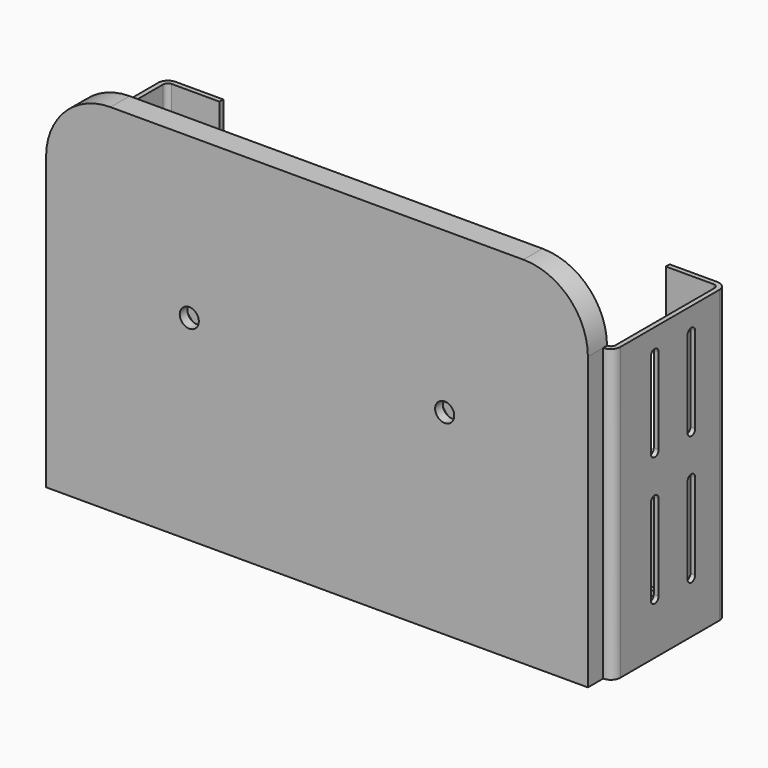
from build123d import *

# Parameters (mm, degrees)
PAD_DEPTH       = 74.5
PAD001_DEPTH    = 1
POCKET_DEPTH    = 28.9
POCKET001_DEPTH = 5.001
SKETCH004_R     = 5
POCKET002_DEPTH = 3
SKETCH005_R     = 2
HOLE_DEPTH      = 25
POCKET003_DEPTH = 117.501


with BuildPart() as part:
    # Sketch → Pad (new body)
    with BuildSketch(Plane.XY):
        with BuildLine():
            Line((1, -1), (1, -5))
            Line((1, -5), (114.5, -5))
            Line((114.5, -1), (114.5, -5))
            ThreePointArc((114.5, -1), (115.914212, -0.414215), (116.5, 0.999995))
            Line((116.5, 0.999995), (116.5, 26.9))
            ThreePointArc((116.5, 26.9), (115.914214, 28.314214), (114.5, 28.9))
            Line((1, 28.9), (114.5, 28.9))
            ThreePointArc((1, 28.9), (-0.414214, 28.314214), (-1, 26.9))
            Line((-1, 1), (-1, 26.9))
            ThreePointArc((-1, 1), (-0.414214, -0.414214), (1, -1))
        make_face()
        with BuildLine():
            Line((1, 0), (114.5, 0))
            ThreePointArc((114.5, 0), (115.207107, 0.292893), (115.5, 1))
            Line((115.5, 1), (115.5, 26.9))
            ThreePointArc((115.5, 26.9), (115.207107, 27.607107), (114.5, 27.9))
            Line((114.5, 27.9), (1, 27.9))
            ThreePointArc((1, 27.9), (0.292893, 27.607107), (0, 26.9))
            Line((0, 26.9), (0, 1))
            ThreePointArc((0, 1), (0.292893, 0.292893), (1, 0))
        make_face(mode=Mode.SUBTRACT)
    extrude(amount=PAD_DEPTH)

    # Sketch001 → Pad001 (join)
    with BuildSketch(Plane.XY):
        with BuildLine():
            Line((-1, 1), (-1, 26.9))
            ThreePointArc((1, 28.9), (-0.414214, 28.314214), (-1, 26.9))
            Line((1, 28.9), (114.5, 28.9))
            ThreePointArc((116.5, 26.9), (115.914214, 28.314214), (114.5, 28.9))
            Line((116.5, 26.9), (116.5, 0.999995))
            ThreePointArc((114.5, -1), (115.914212, -0.414215), (116.5, 0.999995))
            Line((114.5, -1), (114.5, -5))
            Line((114.5, -5), (1, -5))
            Line((1, -5), (1, -1))
            ThreePointArc((-1, 1), (-0.414214, -0.414214), (1, -1))
        make_face()
        Polygon((9, 26.9), (9, 1), (106.5, 0.999995), (106.5, 26.9), align=None, mode=Mode.SUBTRACT)
    extrude(amount=PAD001_DEPTH)

    # Sketch002 (on Face22 of Pad001) → Pocket (cut)
    with BuildSketch(Plane(origin=(0, 28.9, 0), x_dir=(-1, 0, 0), z_dir=(0, 1, 0))):
        Polygon((-104.5, 21), (-104.5, 61), (-124.5, 61), (-124.5, 74.5), (9, 74.5), (9, 61), (-11, 61), (-11, 21), align=None)
    extrude(amount=-POCKET_DEPTH, mode=Mode.SUBTRACT)

    # Sketch003 (on Face30 of Pocket) → Pocket001 (cut, through all)
    with BuildSketch(Plane(origin=(0, 0, 0), x_dir=(-1, 0, 0), z_dir=(0, 1, 0))):
        with BuildLine():
            ThreePointArc((-101, 74.5), (-110.545942, 70.545942), (-114.5, 61))
            Line((-114.5, 61), (-124.5, 61))
            Line((-124.5, 61), (-124.5, 74.5))
            Line((-124.5, 74.5), (-101, 74.5))
        make_face()
        with BuildLine():
            ThreePointArc((-1, 61), (-4.954058, 70.545942), (-14.5, 74.5))
            Line((-14.5, 74.5), (9, 74.5))
            Line((9, 74.5), (9, 61))
            Line((9, 61), (-1, 61))
        make_face()
    extrude(amount=-POCKET001_DEPTH, mode=Mode.SUBTRACT)

    # Sketch004 (on Face42 of Pocket001) → Pocket002 (cut)
    with BuildSketch(Plane(origin=(0, 0, 0), x_dir=(-1, 0, 0), z_dir=(0, 1, 0))):
        with Locations((-84.5, 41)):
            Circle(SKETCH004_R)
        with Locations((-31, 41)):
            Circle(SKETCH004_R)
    extrude(amount=-POCKET002_DEPTH, mode=Mode.SUBTRACT)

    # Sketch005 (on Face42 of Pocket001) → Hole (cut)
    with BuildSketch(Plane(origin=(0, 0, 0), x_dir=(-1, 0, 0), z_dir=(0, 1, 0))):
        with Locations((-84.5, 41)):
            Circle(SKETCH005_R)
        with Locations((-31, 41)):
            Circle(SKETCH005_R)
    extrude(amount=-HOLE_DEPTH, mode=Mode.SUBTRACT)

    # Sketch006 (on Face21 of Hole) → Pocket003 (cut, through all)
    with BuildSketch(Plane.YZ.offset(116.5)):
        with BuildLine():
            ThreePointArc((9, 11), (10, 10), (11, 11))
            Line((11, 11), (11, 29))
            ThreePointArc((11, 29), (10, 30), (9, 29))
            Line((9, 11), (9, 29))
        make_face()
        with BuildLine():
            ThreePointArc((9, 38), (10, 37), (11, 38))
            Line((11, 38), (11, 56))
            ThreePointArc((11, 56), (10, 57), (9, 56))
            Line((9, 38), (9, 56))
        make_face()
        with BuildLine():
            ThreePointArc((18.6, 11), (19.6, 10), (20.6, 11))
            Line((20.6, 11), (20.6, 29))
            ThreePointArc((20.6, 29), (19.6, 30), (18.6, 29))
            Line((18.6, 11), (18.6, 29))
        make_face()
        with BuildLine():
            ThreePointArc((18.6, 38), (19.6, 37), (20.6, 38))
            Line((20.6, 38), (20.6, 56))
            ThreePointArc((20.6, 56), (19.6, 57), (18.6, 56))
            Line((18.6, 38), (18.6, 56))
        make_face()
    extrude(amount=-POCKET003_DEPTH, mode=Mode.SUBTRACT)


solid = part.part
